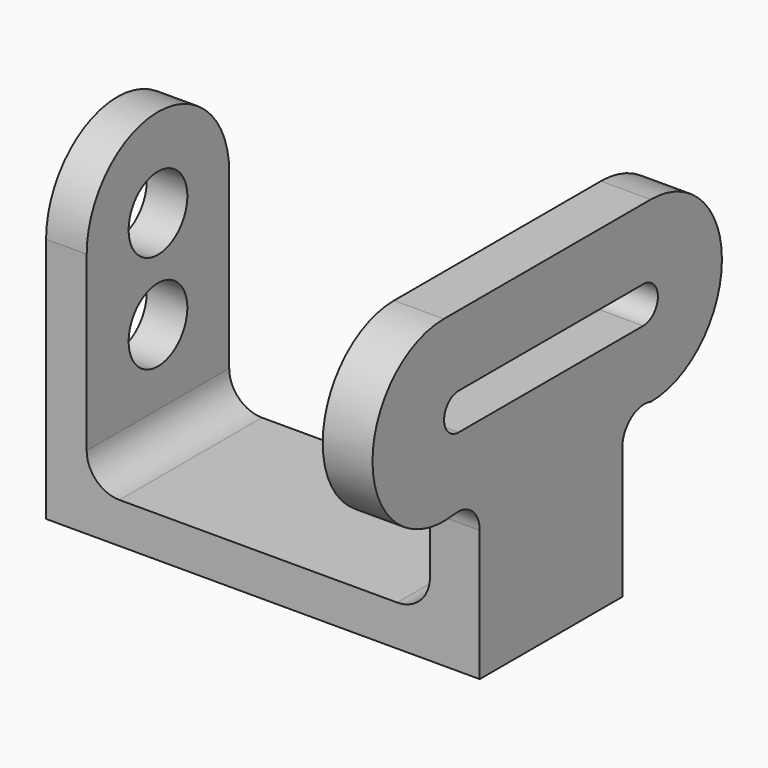
from build123d import *

# Parameters (mm, degrees)
F1_DEPTH = 34.544
F3_DEPTH = 7.874
F5_DEPTH = 9.652
F6_R     = 7.112
F7_DEPTH = 25.4
F8_R     = 6.35


with BuildPart() as f1:
    # F0 (on Front) → F1 (new body)
    with BuildSketch(Plane.XZ):
        Polygon((0, 0), (0, 25.4), (-9.652, 25.4), (-9.652, 7.874), (-76.2, 7.874), (-76.2, 47.752), (-84.074, 47.752), (-84.074, 0), align=None)
    extrude(amount=F1_DEPTH)

    # F2 (on face) → F3 (join)
    with BuildSketch(Plane(origin=(-84.074, 0, 0), x_dir=(0, -1, 0), z_dir=(-1, 0, 0))):
        with BuildLine():
            ThreePointArc((34.544, 47.752), (17.272, 65.024), (0, 47.752))
            Line((0, 47.752), (34.544, 47.752))
        make_face()
    extrude(amount=-F3_DEPTH)

    # F4 (on face) → F5 (join)
    with BuildSketch(Plane.YZ):
        with BuildLine():
            Line((6.8788736876, 65.024), (-17.272, 65.024))
            Line((-17.272, 65.024), (-43.2572502127, 65.024))
            ThreePointArc((-43.2572502127, 65.024), (-60.480665025, 46.4574088668), (-40.6753511738, 30.6740674157))
            ThreePointArc((-40.6753511738, 30.6740674157), (-36.3996034701, 29.4437993991), (-34.544, 25.4))
            Line((-34.544, 25.4), (0, 25.4))
            ThreePointArc((0, 25.4), (2.1892001539, 29.708339579), (6.9598012479, 30.4801895932))
            ThreePointArc((6.9598012479, 30.4801895932), (24.1508262893, 47.7924638912), (6.8788736876, 65.024))
        make_face()
        with BuildLine():
            Line((5.08, 44.196), (-39.624, 44.196))
            ThreePointArc((-39.624, 44.196), (-43.18, 47.752), (-39.624, 51.308))
            Line((-39.624, 51.308), (-34.1739776358, 51.308))
            ThreePointArc((-34.1739776358, 51.308), (-28.1555369251, 61.163584843), (-17.272, 65.024))
            ThreePointArc((-17.272, 65.024), (-6.3884630749, 61.163584843), (-0.3700223642, 51.308))
            Line((-0.3700223642, 51.308), (5.08, 51.308))
            ThreePointArc((5.08, 51.308), (8.636, 47.752), (5.08, 44.196))
        make_face(mode=Mode.SUBTRACT)
        with BuildLine():
            ThreePointArc((-17.272, 65.024), (-28.1555369251, 61.163584843), (-34.1739776358, 51.308))
            Line((-34.1739776358, 51.308), (-0.3700223642, 51.308))
            ThreePointArc((-0.3700223642, 51.308), (-6.3884630749, 61.163584843), (-17.272, 65.024))
        make_face()
    extrude(amount=-F5_DEPTH)

    # F6 (on face) → F7 (cut)
    with BuildSketch(Plane(origin=(-84.074, 0, 0), x_dir=(0, -1, 0), z_dir=(-1, 0, 0))):
        with Locations((17.272, 47.752)):
            Circle(F6_R)
        with Locations((17.272, 28.702)):
            Circle(F6_R)
    extrude(amount=-F7_DEPTH, mode=Mode.SUBTRACT)

    # F8
    f8_edges = [f1.edges().sort_by_distance(p)[0] for p in [
        (-9.652, -17.272, 7.874),
        (-76.2, -17.272, 7.874),
    ]]
    fillet(f8_edges, radius=F8_R)


solid = f1.part
